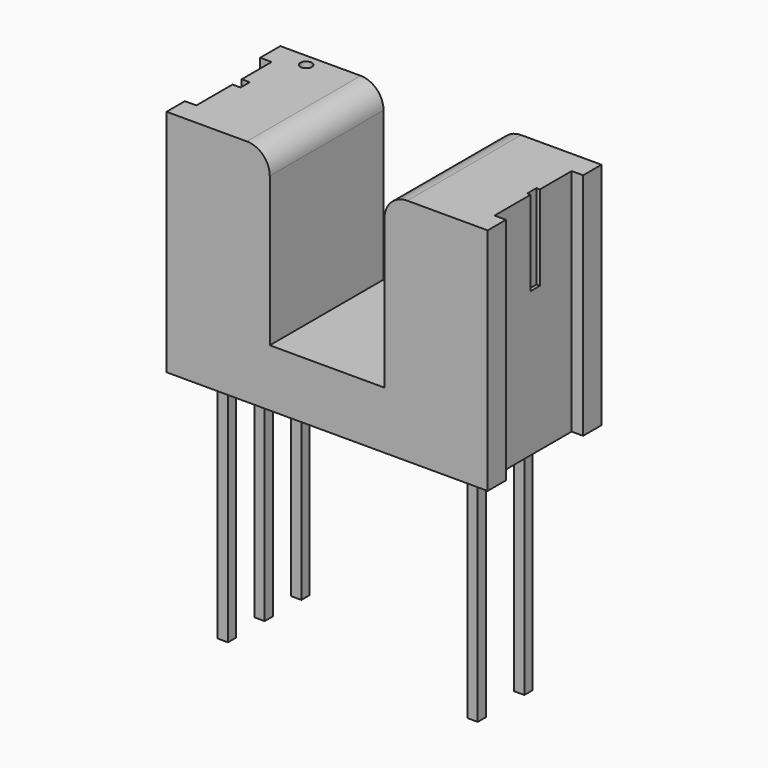
from build123d import *

# Parameters (mm, degrees)
BOX_W             = 0.45
BOX_H             = 0.45
BOX_DEPTH         = 11
BOX001_W          = 0.45
BOX001_H          = 0.45
BOX001_DEPTH      = 11
BOX002_W          = 0.45
BOX002_H          = 0.45
BOX002_DEPTH      = 11
BOX003_W          = 0.45
BOX003_H          = 0.45
BOX003_DEPTH      = 11
BOX004_W          = 0.45
BOX004_H          = 0.45
BOX004_DEPTH      = 11
CYLINDER002_R     = 0.25
CYLINDER002_DEPTH = 1
BOX006_W          = 0.5
BOX006_H          = 0.5
BOX006_DEPTH      = 4
BOX007_W          = 0.5
BOX007_H          = 0.5
BOX007_DEPTH      = 4
BOX005_W          = 5
BOX005_H          = 8
BOX005_DEPTH      = 7.5
PAD_DEPTH         = 10
FILLET_R          = 1
FILLET001_R       = 1


with BuildPart() as pin001:
    # Box → Box (new body)
    with BuildSketch(Plane(origin=(-0.23, -0.23, -10), x_dir=(1, 0, 0), z_dir=(0, 0, 1))):
        with Locations((0.225, 0.225)):
            Rectangle(BOX_W, BOX_H)
    extrude(amount=BOX_DEPTH)


with BuildPart() as pin003:
    # Box001 → Box001 (new body)
    with BuildSketch(Plane(origin=(-0.23, -4.23, -10), x_dir=(1, 0, 0), z_dir=(0, 0, 1))):
        with Locations((0.225, 0.225)):
            Rectangle(BOX001_W, BOX001_H)
    extrude(amount=BOX001_DEPTH)


with BuildPart() as pin005:
    # Box002 → Box002 (new body)
    with BuildSketch(Plane(origin=(10.075, -0.96, -10), x_dir=(1, 0, 0), z_dir=(0, 0, 1))):
        with Locations((0.225, 0.225)):
            Rectangle(BOX002_W, BOX002_H)
    extrude(amount=BOX002_DEPTH)


with BuildPart() as pin002:
    # Box003 → Box003 (new body)
    with BuildSketch(Plane(origin=(-0.23, -2.23, -10), x_dir=(1, 0, 0), z_dir=(0, 0, 1))):
        with Locations((0.225, 0.225)):
            Rectangle(BOX003_W, BOX003_H)
    extrude(amount=BOX003_DEPTH)


with BuildPart() as pin004:
    # Box004 → Box004 (new body)
    with BuildSketch(Plane(origin=(10.075, -3.5, -10), x_dir=(1, 0, 0), z_dir=(0, 0, 1))):
        with Locations((0.225, 0.225)):
            Rectangle(BOX004_W, BOX004_H)
    extrude(amount=BOX004_DEPTH)


with BuildPart() as vcc_marking:
    # Cylinder002 → Cylinder002 (new body)
    with BuildSketch(Plane(origin=(-0.3, 1.2, 10), x_dir=(1, 0, 0), z_dir=(0, 0, 1))):
        Circle(CYLINDER002_R)
    extrude(amount=CYLINDER002_DEPTH)


with BuildPart() as kub006:
    # Box006 → Box006 (new body)
    with BuildSketch(Plane(origin=(-1.5, -1.5, 7), x_dir=(1, 0, 0), z_dir=(0, 0, 1))):
        with Locations((0.25, 0.25)):
            Rectangle(BOX006_W, BOX006_H)
    extrude(amount=BOX006_DEPTH)


with BuildPart() as kub007:
    # Box007 → Box007 (new body)
    with BuildSketch(Plane(origin=(11.5, -1.5, 7), x_dir=(1, 0, 0), z_dir=(0, 0, 1))):
        with Locations((0.25, 0.25)):
            Rectangle(BOX007_W, BOX007_H)
    extrude(amount=BOX007_DEPTH)


with BuildPart() as kub005:
    # Box005 → Box005 (new body)
    with BuildSketch(Plane(origin=(2.65, -5, 3.2), x_dir=(1, 0, 0), z_dir=(0, 0, 1))):
        with Locations((2.5, 4)):
            Rectangle(BOX005_W, BOX005_H)
    extrude(amount=BOX005_DEPTH)


with BuildPart() as fillet001:
    # Sketch → Pad (new body)
    with BuildSketch(Plane.XY):
        Polygon((-1.85, 1.73), (12.15, 1.73), (12.15, 0.73), (11.65, 0.73), (11.65, -3.47), (12.15, -3.47), (12.15, -4.47), (-1.85, -4.47), (-1.85, -3.47), (-1.35, -3.47), (-1.35, 0.63), (-1.85, 0.63), align=None)
    extrude(amount=PAD_DEPTH)


with BuildPart() as fillet001_1:
    # Body placement: moved
    add(fillet001.part.moved(Location((0, 0, 0.7))))

    # Cut: cut Kub005
    add(kub005.part, mode=Mode.SUBTRACT)

    # Cut001: cut Kub007
    add(kub007.part, mode=Mode.SUBTRACT)

    # Cut002: cut Kub006
    add(kub006.part, mode=Mode.SUBTRACT)

    # Cut003: cut VCC marking
    add(vcc_marking.part, mode=Mode.SUBTRACT)


with BuildPart() as fillet001_2:
    # Cut003 placement: moved
    add(fillet001_1.part.moved(Location((0, -0.52, -0.7))))

    # Fillet
    fillet_edges = [fillet001_2.edges().sort_by_distance(p)[0] for p in [
        (2.65, -1.89, 10),
    ]]
    fillet(fillet_edges, radius=FILLET_R)

    # Fillet001
    fillet001_edges = [fillet001_2.edges().sort_by_distance(p)[0] for p in [
        (7.65, -1.89, 10),
    ]]
    fillet(fillet001_edges, radius=FILLET001_R)


solid = Compound([pin001.part, pin003.part, pin005.part, pin002.part, pin004.part, fillet001_2.part])
